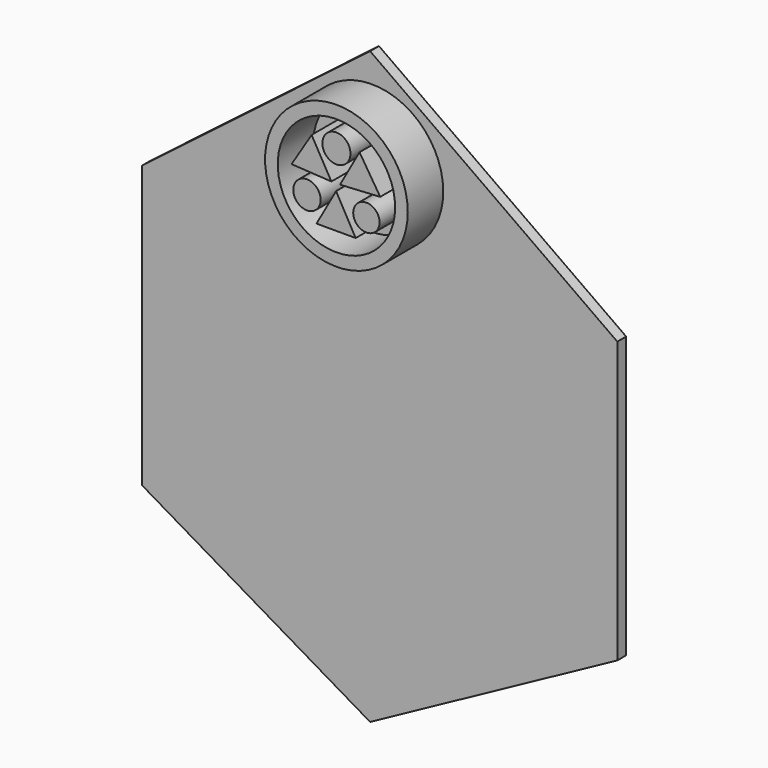
from build123d import *

# Parameters (mm, degrees)
F1_DEPTH  = 12.7
F2_DEPTH  = 2.54
F3_DEPTH  = 7.62
F4_DEPTH  = 2.54
F5_DEPTH  = 2.54
F6_DEPTH  = 2.54
F7_DEPTH  = 2.54
F8_DEPTH  = 2.54
F9_DEPTH  = 2.54
F10_R     = 16.3446931482
F10_R_2   = 13.4473820184
F10_R_3   = 3.0169302384
F10_R_4   = 3.1385421842
F10_R_5   = 3.2190410071
F11_DEPTH = 25.4
F12_DEPTH = 19.05
F13_DEPTH = 6.35
F14_DEPTH = 2.54
F15_DEPTH = 2.54
F16_DEPTH = 2.54


with BuildPart() as f1:
    # F0 (on Front) → F1 (new body)
    with BuildSketch(Plane.XZ):
        Polygon((59.2296272516, 26.558874175), (0, 68.5641244054), (-54.7846257687, 26.558874175), (-54.7846257687, -40.5606217682), (0, -72.7868750691), (59.2296272516, -40.5606217682), align=None)
    extrude(amount=F1_DEPTH)

    # F2 (cut): a face of the model
    f2_faces = [f1.faces().sort_by_distance(p)[0] for p in [
        (1.9587071028, -12.7, -4.2659517496),
    ]]
    extrude(f2_faces, amount=-F2_DEPTH, mode=Mode.SUBTRACT)

    # F3 (cut): a face of the model
    f3_faces = [f1.faces().sort_by_distance(p)[0] for p in [
        (1.9587071028, -10.16, -4.2659517496),
    ]]
    extrude(f3_faces, amount=-F3_DEPTH, mode=Mode.SUBTRACT)

    # F4 (cut): a face of the model
    f4_faces = [f1.faces().sort_by_distance(p)[0] for p in [
        (29.6148136258, -1.27, 47.5614992902),
    ]]
    extrude(f4_faces, amount=-F4_DEPTH, mode=Mode.SUBTRACT)

    # F5 (cut): a face of the model
    f5_faces = [f1.faces().sort_by_distance(p)[0] for p in [
        (-27.3923128843, -1.27, 47.5614992902),
    ]]
    extrude(f5_faces, amount=-F5_DEPTH, mode=Mode.SUBTRACT)

    # F6 (cut): a face of the model
    f6_faces = [f1.faces().sort_by_distance(p)[0] for p in [
        (59.2296272516, -1.27, -7.0008737966),
    ]]
    extrude(f6_faces, amount=-F6_DEPTH, mode=Mode.SUBTRACT)

    # F7 (cut): a face of the model
    f7_faces = [f1.faces().sort_by_distance(p)[0] for p in [
        (-54.7846257687, -1.27, -7.0008737966),
    ]]
    extrude(f7_faces, amount=-F7_DEPTH, mode=Mode.SUBTRACT)

    # F8 (cut): a face of the model
    f8_faces = [f1.faces().sort_by_distance(p)[0] for p in [
        (-27.3923128843, -1.27, -56.6737484187),
    ]]
    extrude(f8_faces, amount=-F8_DEPTH, mode=Mode.SUBTRACT)

    # F9 (cut): a face of the model
    f9_faces = [f1.faces().sort_by_distance(p)[0] for p in [
        (29.6148136258, -1.27, -56.6737484187),
    ]]
    extrude(f9_faces, amount=-F9_DEPTH, mode=Mode.SUBTRACT)

    # F10 (on face) → F11 (join)
    with BuildSketch(Plane.XZ.offset(2.54)):
        with Locations((0.4653159413, 42.5413995981)):
            Circle(F10_R)
        with Locations((0.4653159413, 42.5413995981)):
            Circle(F10_R_2, mode=Mode.SUBTRACT)
        Polygon((5.7624652982, 51.0174520314), (1.3005869696, 43.022621423), (10.498451069, 43.5544140637), align=None)
        with Locations((7.332497742, 38.3531376719)):
            Circle(F10_R_3)
        Polygon((4.8724082299, 33.4170944989), (0.3896932758, 41.4243862033), (-4.0930220857, 33.4170944989), align=None)
        with Locations((-6.2807253562, 38.5114327073)):
            Circle(F10_R_4)
        Polygon((-5.2216826007, 50.936318934), (-9.8047619686, 43.5544140637), (-0.6910812808, 43.0121421814), align=None)
        with Locations((0.4653159413, 50.0668436289)):
            Circle(F10_R_5)
    extrude(amount=F11_DEPTH)

    # F12 (cut): faces of the model
    f12_faces = [f1.faces().sort_by_distance(p)[0] for p in [
        (-15.4170794725, -27.94, 42.5413995981),
        (0.38969314, -27.94, 36.0861917337),
        (7.332497742, -27.94, 38.3531376719),
        (5.8538344456, -27.94, 45.8648291727),
        (-5.2391752834, -27.94, 45.8342917264),
        (-6.2807253562, -27.94, 38.5114327073),
        (0.4653159413, -27.94, 50.0668436289),
    ]]
    extrude(f12_faces, amount=-F12_DEPTH, mode=Mode.SUBTRACT)

    # F13 (add): faces of the model
    f13_faces = [f1.faces().sort_by_distance(p)[0] for p in [
        (-15.4170794725, -8.89, 42.5413995981),
        (7.332497742, -8.89, 38.3531376719),
        (5.8538344456, -8.89, 45.8648291727),
        (0.4653159413, -8.89, 50.0668436289),
        (-5.2391752834, -8.89, 45.8342917264),
        (-6.2807253562, -8.89, 38.5114327073),
        (0.38969314, -8.89, 36.0861917337),
    ]]
    extrude(f13_faces, amount=F13_DEPTH)

    # F14 (cut): faces of the model
    f14_faces = [f1.faces().sort_by_distance(p)[0] for p in [
        (-15.4170794725, -15.24, 42.5413995981),
        (7.332497742, -15.24, 38.3531376719),
        (5.8538344456, -15.24, 45.8648291727),
        (0.4653159413, -15.24, 50.0668436289),
        (-5.2391752834, -15.24, 45.8342917264),
        (-6.2807253562, -15.24, 38.5114327073),
        (0.38969314, -15.24, 36.0861917337),
    ]]
    extrude(f14_faces, amount=-F14_DEPTH, mode=Mode.SUBTRACT)

    # F15 (cut): faces of the model
    f15_faces = [f1.faces().sort_by_distance(p)[0] for p in [
        (5.8538344456, -12.7, 45.8648291727),
        (0.4653159413, -12.7, 50.0668436289),
        (7.332497742, -12.7, 38.3531376719),
        (0.38969314, -12.7, 36.0861917337),
        (-5.2391752834, -12.7, 45.8342917264),
        (-6.2807253562, -12.7, 38.5114327073),
        (-15.4170794725, -12.7, 42.5413995981),
    ]]
    extrude(f15_faces, amount=-F15_DEPTH, mode=Mode.SUBTRACT)

    # F16 (add): faces of the model
    f16_faces = [f1.faces().sort_by_distance(p)[0] for p in [
        (0.4653159413, -10.16, 50.0668436289),
        (5.8538344456, -10.16, 45.8648291727),
        (7.332497742, -10.16, 38.3531376719),
        (0.38969314, -10.16, 36.0861917337),
        (-5.2391752834, -10.16, 45.8342917264),
        (-6.2807253562, -10.16, 38.5114327073),
        (-15.4170794725, -10.16, 42.5413995981),
    ]]
    extrude(f16_faces, amount=F16_DEPTH)


solid = f1.part
